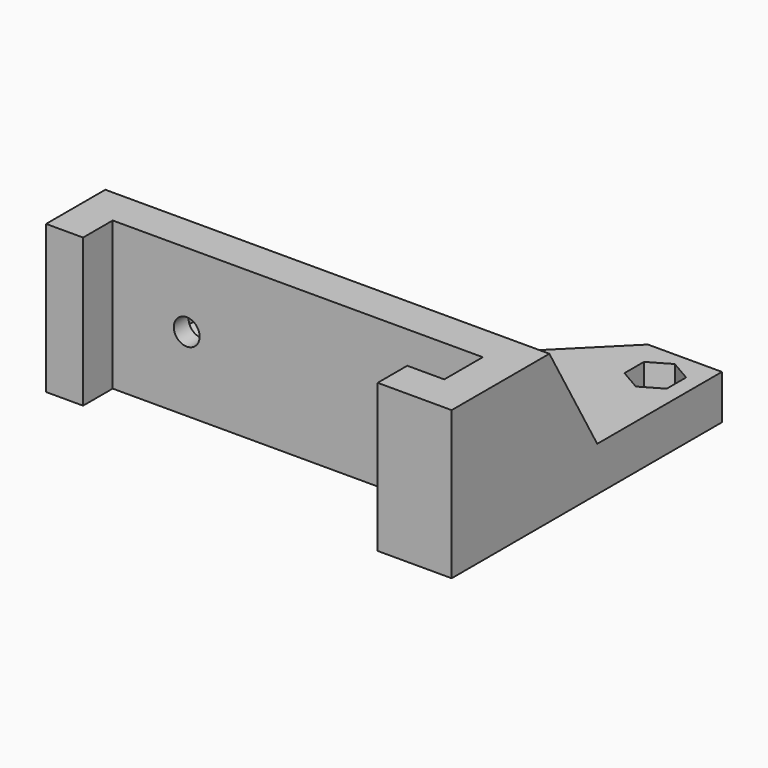
from build123d import *

# Parameters (mm, degrees)
F1_DEPTH  = 20
F2_R      = 1.75
F3_DEPTH  = 6
F5_DEPTH  = 3
F7_DEPTH  = 3
F8_R      = 1.75
F9_DEPTH  = 16.501
F11_DEPTH = 2.5


with BuildPart() as f1:
    # F0 (on Top) → F1 (new body)
    with BuildSketch(Plane.XY):
        Polygon((0, 10), (0, 0), (5, 0), (5, 5), (55, 5), (55, -1.5), (50, -1.5), (50, -6.5), (60, -6.5), (60, 10), align=None)
    extrude(amount=F1_DEPTH)

    # F2 (on face) → F3 (join)
    with BuildSketch(Plane(origin=(0, 0, 0), x_dir=(1, 0, 0), z_dir=(0, 0, -1))):
        Polygon((60, -39.142136), (60, -10), (35.857864, -10), (35.857864, -25), (50, -39.142136), align=None)
        with Locations((55, -34.142136)):
            Circle(F2_R, mode=Mode.SUBTRACT)
        with Locations((40.857864, -20)):
            Circle(F2_R, mode=Mode.SUBTRACT)
    extrude(amount=-F3_DEPTH)

    # F4 (on face) → F5 (cut)
    with BuildSketch(Plane.XY.offset(6)):
        Polygon((38.007864, 21.645448), (38.007864, 18.354552), (40.857864, 16.709103), (43.707864, 18.354552), (43.707864, 21.645448), (40.857864, 23.290897), align=None)
        Polygon((57.85, 32.496687), (57.85, 35.787584), (55, 37.433032), (52.15, 35.787584), (52.15, 32.496687), (55, 30.851239), align=None)
    extrude(amount=-F5_DEPTH, mode=Mode.SUBTRACT)

    # F6 (on face) → F7 (join)
    with BuildSketch(Plane.YZ.offset(60)):
        Polygon((18.082904, 6), (10, 20), (10, 6), align=None)
    extrude(amount=-F7_DEPTH)

    # F8 (on face) → F9 (cut, through all)
    with BuildSketch(Plane(origin=(0, 10, 0), x_dir=(-1, 0, 0), z_dir=(0, 1, 0))):
        with Locations((-15, 10)):
            Circle(F8_R)
    extrude(amount=-F9_DEPTH, mode=Mode.SUBTRACT)

    # F10 (on face) → F11 (cut)
    with BuildSketch(Plane(origin=(0, 10, 0), x_dir=(-1, 0, 0), z_dir=(0, 1, 0))):
        Polygon((-12.15, 8.354552), (-12.15, 11.645448), (-15, 13.290897), (-17.85, 11.645448), (-17.85, 8.354552), (-15, 6.709103), align=None)
    extrude(amount=-F11_DEPTH, mode=Mode.SUBTRACT)


solid = f1.part
